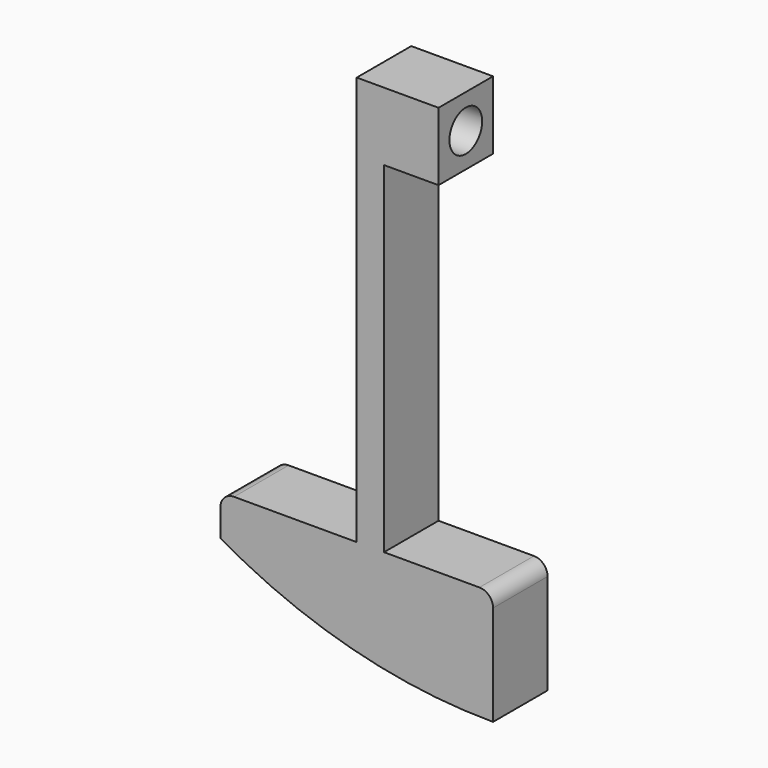
from build123d import *

# Parameters (mm, degrees)
F1_DEPTH = 2.5
F2_R     = 1.5
F3_DEPTH = 16.001


with BuildPart() as f1:
    # F0 (on Front) → F1 (new body, symmetric)
    with BuildSketch(Plane.XZ):
        with BuildLine():
            Line((-20, 7.358984), (-20, 5.358984))
            ThreePointArc((-20, 5.358984), (-10.352762, 1.362967), (0, 0))
            Line((0, 0), (0, 7.358984))
            ThreePointArc((0, 7.358984), (-0.292893, 8.066091), (-1, 8.358984))
            Line((-1, 8.358984), (-8, 8.358984))
            Line((-8, 8.358984), (-8, 33.358984))
            Line((-8, 33.358984), (-4, 33.358984))
            Line((-4, 33.358984), (-4, 38.358984))
            Line((-4, 38.358984), (-10, 38.358984))
            Line((-10, 38.358984), (-10, 8.358984))
            Line((-10, 8.358984), (-19, 8.358984))
            ThreePointArc((-19, 8.358984), (-19.707107, 8.066091), (-20, 7.358984))
        make_face()
    extrude(amount=F1_DEPTH, both=True)

    # F2 (on face) → F3 (cut, through all)
    with BuildSketch(Plane.YZ.offset(-4)):
        with Locations((0, 35.858984)):
            Circle(F2_R)
    extrude(amount=-F3_DEPTH, mode=Mode.SUBTRACT)


solid = f1.part
